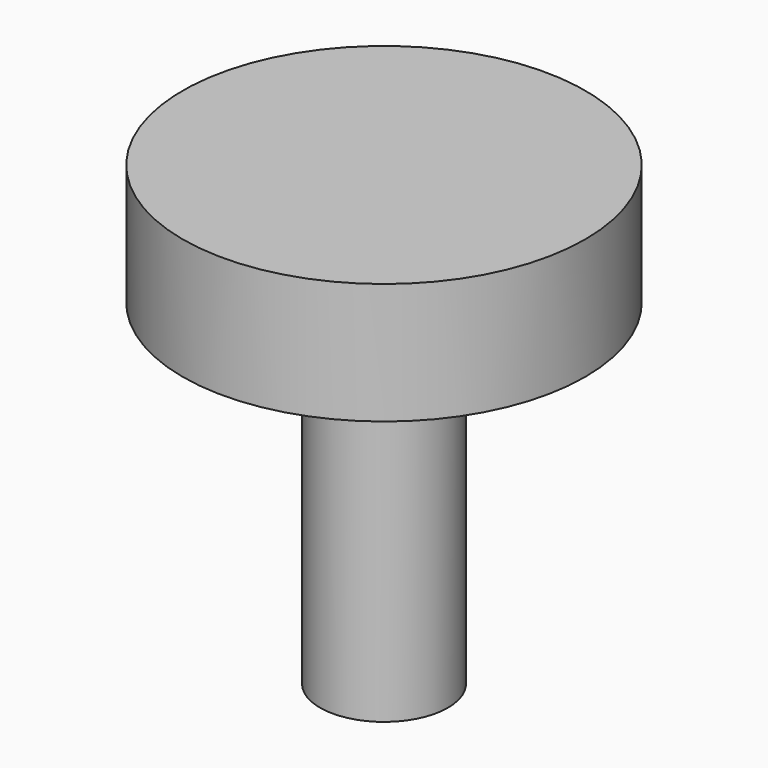
from build123d import *

# Parameters (mm, degrees)
F0_R     = 29.986218
F1_DEPTH = 18.034
F2_R     = 9.533497
F3_DEPTH = 68.072


with BuildPart() as f1:
    # F0 (on Top) → F1 (new body)
    with BuildSketch(Plane.XY):
        Circle(F0_R)
    extrude(amount=F1_DEPTH)

    # F2 (on face) → F3 (join)
    with BuildSketch(Plane.XY.offset(18.034)):
        Circle(F2_R)
    extrude(amount=-F3_DEPTH)


solid = f1.part
